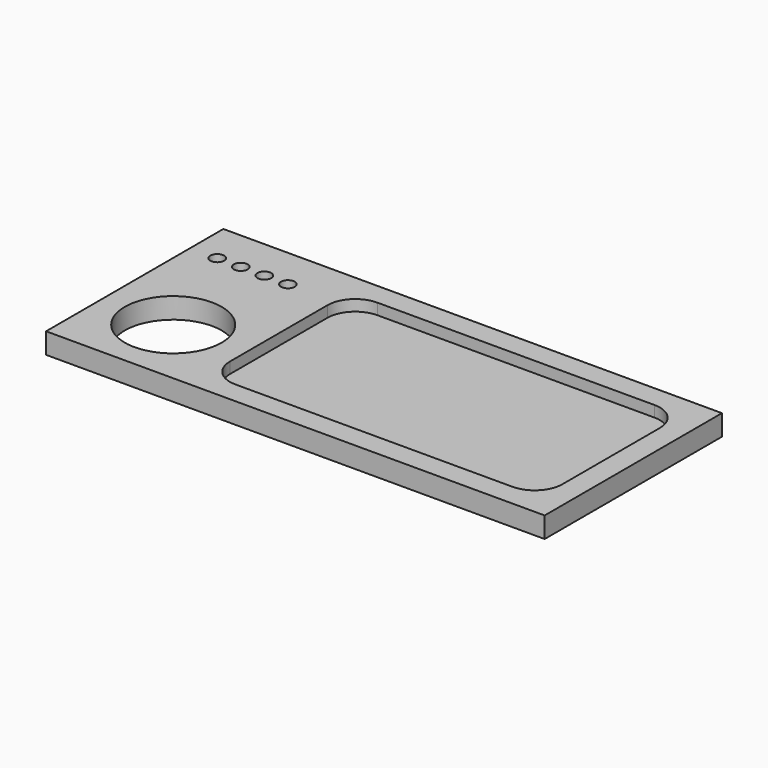
from build123d import *

# Parameters (mm, degrees)
F0_W     = 228.6
F0_H     = 101.6
F0_R     = 22.225
F0_R_2   = 3.175
F1_DEPTH = 9.525
F2_DEPTH = 5.08


with BuildPart() as f1:
    # F0 (on Top) → F1 (new body)
    with BuildSketch(Plane.XY):
        with Locations((114.3, -50.8)):
            Rectangle(F0_W, F0_H)
        with Locations((32.385, -69.215)):
            Circle(F0_R, mode=Mode.SUBTRACT)
        with Locations((12.446, -19.05)):
            Circle(F0_R_2, mode=Mode.SUBTRACT)
        with Locations((23.241, -19.05)):
            Circle(F0_R_2, mode=Mode.SUBTRACT)
        with Locations((34.036, -19.05)):
            Circle(F0_R_2, mode=Mode.SUBTRACT)
        with Locations((44.831, -19.05)):
            Circle(F0_R_2, mode=Mode.SUBTRACT)
        with BuildLine():
            ThreePointArc((66.04, -22.86), (69.759744, -13.879744), (78.74, -10.16))
            Line((78.74, -10.16), (205.74, -10.16))
            ThreePointArc((205.74, -10.16), (214.720256, -13.879744), (218.44, -22.86))
            Line((218.44, -22.86), (218.44, -78.74))
            ThreePointArc((218.44, -78.74), (214.720256, -87.720256), (205.74, -91.44))
            Line((205.74, -91.44), (78.74, -91.44))
            ThreePointArc((78.74, -91.44), (69.759744, -87.720256), (66.04, -78.74))
            Line((66.04, -78.74), (66.04, -22.86))
        make_face(mode=Mode.SUBTRACT)
        with BuildLine():
            Line((205.74, -10.16), (78.74, -10.16))
            ThreePointArc((78.74, -10.16), (69.759744, -13.879744), (66.04, -22.86))
            Line((66.04, -22.86), (66.04, -78.74))
            ThreePointArc((66.04, -78.74), (69.759744, -87.720256), (78.74, -91.44))
            Line((78.74, -91.44), (205.74, -91.44))
            ThreePointArc((205.74, -91.44), (214.720256, -87.720256), (218.44, -78.74))
            Line((218.44, -78.74), (218.44, -22.86))
            ThreePointArc((218.44, -22.86), (214.720256, -13.879744), (205.74, -10.16))
        make_face()
    extrude(amount=-F1_DEPTH)

    # F0 (on Top) → F2 (cut)
    with BuildSketch(Plane.XY):
        with BuildLine():
            Line((205.74, -10.16), (78.74, -10.16))
            ThreePointArc((78.74, -10.16), (69.759744, -13.879744), (66.04, -22.86))
            Line((66.04, -22.86), (66.04, -78.74))
            ThreePointArc((66.04, -78.74), (69.759744, -87.720256), (78.74, -91.44))
            Line((78.74, -91.44), (205.74, -91.44))
            ThreePointArc((205.74, -91.44), (214.720256, -87.720256), (218.44, -78.74))
            Line((218.44, -78.74), (218.44, -22.86))
            ThreePointArc((218.44, -22.86), (214.720256, -13.879744), (205.74, -10.16))
        make_face()
    extrude(amount=-F2_DEPTH, mode=Mode.SUBTRACT)


solid = f1.part
